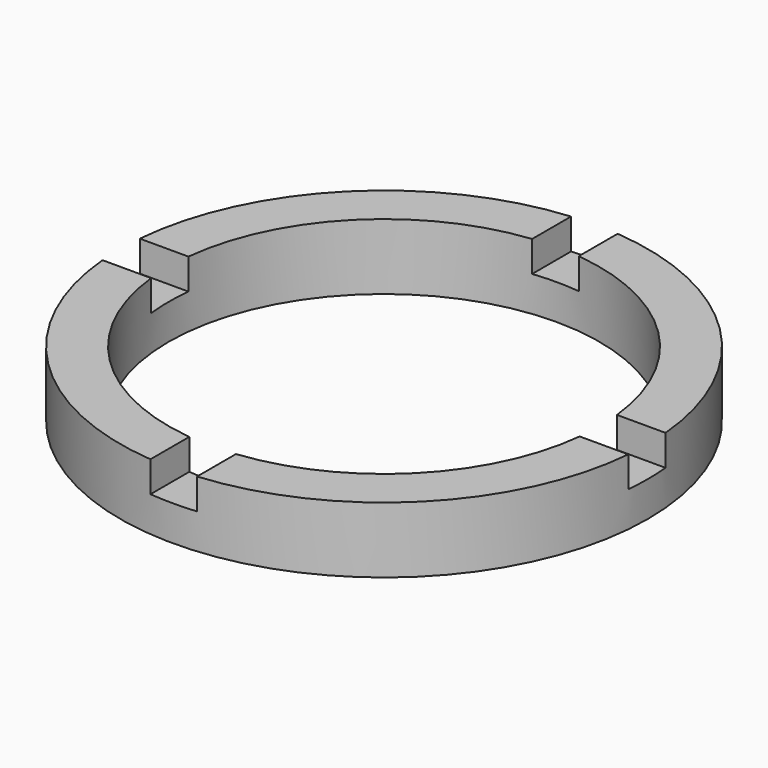
from build123d import *

# Parameters (mm, degrees)
F0_R     = 30
F0_R_2   = 24.5
F1_DEPTH = 7.5
F3_DEPTH = 3.5


with BuildPart() as f1:
    # F0 (on Top) → F1 (new body)
    with BuildSketch(Plane.XY):
        Circle(F0_R)
        Circle(F0_R_2, mode=Mode.SUBTRACT)
    extrude(amount=F1_DEPTH)

    # F2 (on face) → F3 (cut)
    with BuildSketch(Plane.XY.offset(7.5)):
        with BuildLine():
            Line((-2.65, -24.3562620285), (-2.65, -29.8827291257))
            ThreePointArc((-2.65, -29.8827291257), (0, -30), (2.65, -29.8827291257))
            Line((2.65, -29.8827291257), (2.65, -24.3562620285))
            ThreePointArc((2.65, -24.3562620285), (0, -24.5), (-2.65, -24.3562620285))
        make_face()
        with BuildLine():
            ThreePointArc((30, 0), (29.9706679419, 1.3262967671), (29.8827291257, 2.65))
            Line((29.8827291257, 2.65), (24.3562620285, 2.65))
            ThreePointArc((24.3562620285, 2.65), (24.4640391156, 1.3269476821), (24.5, 0))
            ThreePointArc((24.5, 0), (24.4640391156, -1.3269476821), (24.3562620285, -2.65))
            Line((24.3562620285, -2.65), (29.8827291257, -2.65))
            ThreePointArc((29.8827291257, -2.65), (29.9706679419, -1.3262967671), (30, 0))
        make_face()
        with BuildLine():
            ThreePointArc((2.65, 29.8827291257), (0, 30), (-2.65, 29.8827291257))
            Line((-2.65, 29.8827291257), (-2.65, 24.3562620285))
            ThreePointArc((-2.65, 24.3562620285), (0, 24.5), (2.65, 24.3562620285))
            Line((2.65, 24.3562620285), (2.65, 29.8827291257))
        make_face()
        with BuildLine():
            Line((-24.3562620285, 2.65), (-29.8827291257, 2.65))
            ThreePointArc((-29.8827291257, 2.65), (-30, 0), (-29.8827291257, -2.65))
            Line((-29.8827291257, -2.65), (-24.3562620285, -2.65))
            ThreePointArc((-24.3562620285, -2.65), (-24.5, 0), (-24.3562620285, 2.65))
        make_face()
    extrude(amount=-F3_DEPTH, mode=Mode.SUBTRACT)


solid = f1.part
